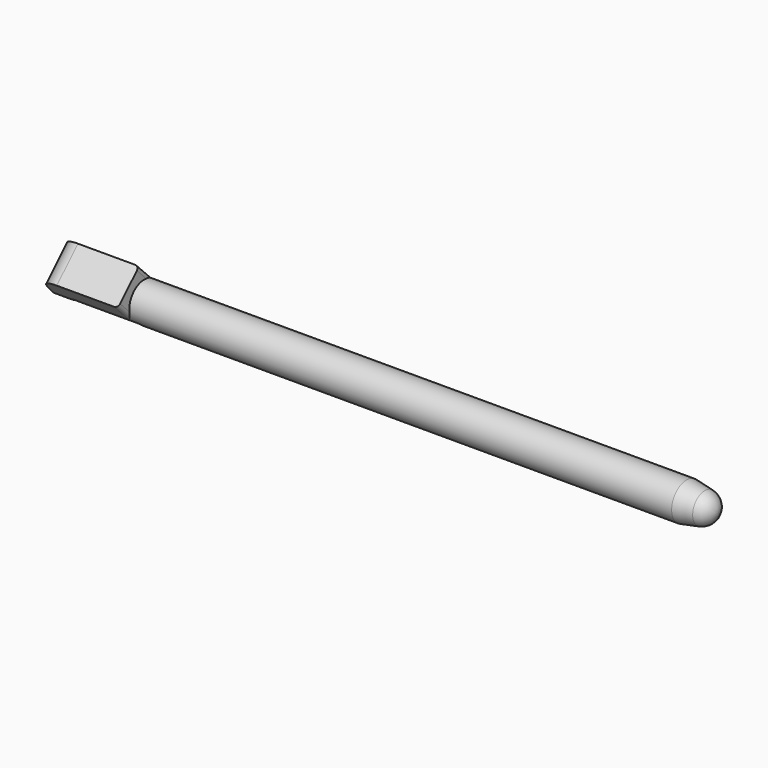
from build123d import *

# Parameters (mm, degrees)
SKETCH_R             = 2.4
PAD_DEPTH            = 84.7
PAD001_DEPTH         = 3.6
POCKET_DEPTH         = 5
PAD002_DEPTH         = 0.75
PAD002_DEPTH_BACK    = 0.75
POCKET001_DEPTH      = 10
POCKET002_DEPTH      = 100
POCKET002_DEPTH_BACK = -100
BODY_PLACEMENT_ANGLE = 44.59


with BuildPart() as part:
    # Sketch → Pad (new body)
    with BuildSketch(Plane.YZ):
        Circle(SKETCH_R)
    extrude(amount=PAD_DEPTH)

    # Sketch001 → Pad001 (join)
    with BuildSketch(Plane.XY):
        with BuildLine():
            Line((0, 2.4), (10.3, 2.4))
            ThreePointArc((10.8, 1.9), (10.653553, 2.253553), (10.3, 2.4))
            Line((10.8, 1.9), (10.8, -1.9))
            ThreePointArc((10.3, -2.4), (10.653553, -2.253553), (10.8, -1.9))
            Line((10.3, -2.4), (0, -2.4))
            Line((0, -2.4), (0, 2.4))
        make_face()
    extrude(amount=PAD001_DEPTH)

    # Sketch002 (on Face7 of Pad001) → Pocket (cut)
    with BuildSketch(Plane(origin=(0, -2.4, 0), x_dir=(0, 0, -1), z_dir=(0, -1, 0))):
        with BuildLine():
            Line((2.4, 0), (-1.6, 0.6))
            ThreePointArc((-3.6, 2.922375), (-3.031088, 1.38994), (-1.6, 0.6))
            Line((-3.6, 2.922375), (-4.6, 2.922375))
            Line((-4.6, 2.922375), (-4.6, -1))
            Line((-4.6, -1), (2.4, -1))
            Line((2.4, -1), (2.4, 0))
        make_face()
    extrude(amount=-POCKET_DEPTH, mode=Mode.SUBTRACT)

    # Sketch003 → Pad002 (join, two sides)
    with BuildSketch(Plane.XZ) as pad002_sk:
        with BuildLine():
            add(Edge.make_bspline(
                [(7.9, -2.4), (7.9, -1.533975), (6.9625, -1.966987), (6.025, -2.4), (6.9625, -2.833013), (7.9, -3.266025), (7.9, -2.4)],
                knots=[0, 0, 0, 2.094395, 2.094395, 4.18879, 4.18879, 6.283185, 6.283185, 6.283185], degree=2, weights=[1, 0.5, 1, 0.5, 1, 0.5, 1]))
        make_face()
    extrude(amount=PAD002_DEPTH)
    extrude(pad002_sk.sketch, amount=-PAD002_DEPTH_BACK)

    # Sketch004 (on Face6 of Pad002) → Pocket001 (cut)
    with BuildSketch(Plane(origin=(0, -2.4, 0), x_dir=(0, 0, -1), z_dir=(0, -1, 0))):
        with BuildLine():
            ThreePointArc((0, 3.275), (0.75, 2.525), (1.5, 3.275))
            Line((1.5, 3.275), (1.5, 11.275))
            ThreePointArc((1.5, 11.275), (0.75, 12.025), (0, 11.275))
            Line((0, 11.275), (0, 3.275))
        make_face()
    extrude(amount=-POCKET001_DEPTH, mode=Mode.SUBTRACT)

    # Sketch005 → Groove (revolve, cut)
    with BuildSketch(Plane.XZ):
        with BuildLine():
            ThreePointArc((84.7, 0), (84.236443, 1.280369), (83.060655, 1.967214))
            Line((83.060655, 1.967214), (80.7, 2.4))
            Line((80.7, 2.4), (84.7, 2.4))
            Line((84.7, 2.4), (85.7, 2.4))
            Line((85.7, 2.4), (85.7, 0))
            Line((85.7, 0), (84.7, 0))
        make_face()
    revolve(axis=Axis((0, 0, 0), (1, 0, 0)), mode=Mode.SUBTRACT)

    # Sketch006 → Pocket002 (cut, two sides)
    with BuildSketch(Plane.YZ) as pocket002_sk:
        Polygon((-1.821564, -1.56266), (-1.821564, -2.9), (-0.465163, -2.9), align=None)
    extrude(amount=-POCKET002_DEPTH, mode=Mode.SUBTRACT)
    extrude(pocket002_sk.sketch, amount=-POCKET002_DEPTH_BACK, mode=Mode.SUBTRACT)


with BuildPart() as part_1:
    # Body placement: moved
    add(part.part.rotate(Axis((0, 0, 0), (1, 0, 0)), BODY_PLACEMENT_ANGLE))


solid = part_1.part
